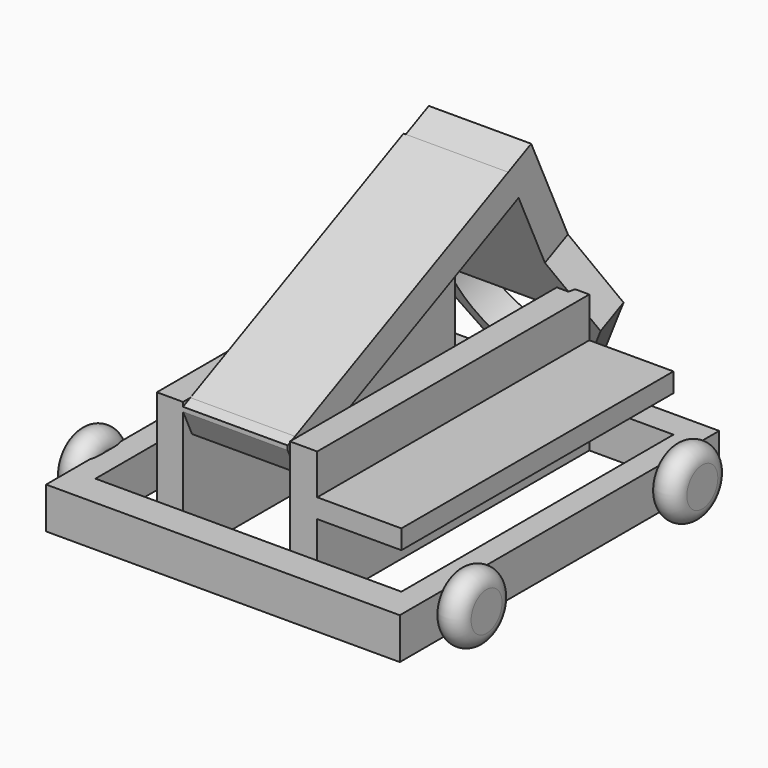
from build123d import *

# Parameters (mm, degrees)
F0_W      = 93.5455225408
F0_H      = 105.5771075189
F0_W_2    = 6.9181583822
F0_H_2    = 89.936055243
F0_W_3    = 7.2189448401
F1_DEPTH  = 10.922
F7_W      = 6.9181583822
F7_H      = 89.936055243
F7_W_2    = 7.2189448401
F8_DEPTH  = 25.4
F9_START  = 9.652
F7_W_3    = 22.2584232688
F9_DEPTH  = 5.08
F11_DEPTH = 27.686
F12_W     = 27.0820019201
F12_H     = 8.1213116646
F13_DEPTH = 8.382


with BuildPart() as f1:
    # F0 (on Top) → F1 (new body)
    with BuildSketch(Plane.XY):
        with Locations((0.3007892519, 2.406315878)):
            Rectangle(F0_W, F0_H)
        Polygon((-40.1553958654, -41.9601351023), (-40.1553958654, 47.9759201407), (-23.9127632231, 47.9759201407), (-16.9946048409, 47.9759201407), (11.2796062604, 47.9759201407), (18.4985511005, 47.9759201407), (40.7569743693, 47.9759201407), (40.7569743693, -41.9601351023), (18.4985511005, -41.9601351023), (11.2796062604, -41.9601351023), (-16.9946048409, -41.9601351023), (-23.9127632231, -41.9601351023), align=None, mode=Mode.SUBTRACT)
        with Locations((-20.453684032, 3.0078925192)):
            Rectangle(F0_W_2, F0_H_2)
        with Locations((14.8890786804, 3.0078925192)):
            Rectangle(F0_W_3, F0_H_2)
    extrude(amount=F1_DEPTH)

    # F7 (on face) → F8 (join)
    with BuildSketch(Plane.XY.offset(10.922)):
        with Locations((-20.453684032, 3.0078925192)):
            Rectangle(F7_W, F7_H)
        with Locations((14.8890786804, 3.0078925192)):
            Rectangle(F7_W_2, F7_H)
    extrude(amount=F8_DEPTH)

    # F7 (on face) → F9 (join)
    with BuildSketch(Plane.XY.offset(10.922).offset(F9_START)):
        with Locations((29.6277627349, 3.0078925192)):
            Rectangle(F7_W_3, F7_H)
    extrude(amount=F9_DEPTH)

    # F10 (on face) → F11 (join)
    with BuildSketch(Plane.YZ.offset(-16.9946048409)):
        Polygon((30.9317931833, 69.1758720489), (-39.5235627911, 36.322), (-20.3069022731, 36.322), (34.3640078021, 61.8154640463), align=None)
        Polygon((-39.5235627911, 36.322), (-41.9601351023, 35.1858076717), (-41.9601351023, 34.0381337532), (-38.9675050974, 27.6204179972), (-20.3069022731, 36.322), align=None)
    extrude(amount=F11_DEPTH)



with BuildPart() as f4:
    # F3 (on offset) → F4 (revolve)
    with BuildSketch(Plane.XZ.offset(30.734)):
        with BuildLine():
            Line((-53.831288591, 6.1661838554), (-46.0107605904, 6.1661838554))
            Line((-46.0107605904, 6.1661838554), (-46.0107605904, 11.279605329))
            ThreePointArc((-46.0107605904, 11.279605329), (-49.9210245907, 15.1898693293), (-53.831288591, 11.279605329))
            Line((-53.831288591, 11.279605329), (-53.831288591, 6.1661838554))
        make_face()
    revolve(axis=Axis((5.344026722, -30.734, 6.1661838554), (1, 0, 0)))


with BuildPart() as f4b:
    # F3 (on offset) → F4, piece 2 (revolve)
    with BuildSketch(Plane.XZ.offset(30.734)):
        with BuildLine():
            Line((46.4820079505, 11.279605329), (46.4820079505, 6.1661838554))
            Line((46.4820079505, 6.1661838554), (54.3025359511, 6.1661838554))
            Line((54.3025359511, 6.1661838554), (54.3025359511, 11.279605329))
            ThreePointArc((54.3025359511, 11.279605329), (50.3922719508, 15.1898693293), (46.4820079505, 11.279605329))
        make_face()
    revolve(axis=Axis((5.344026722, -30.734, 6.1661838554), (1, 0, 0)))


with BuildPart() as f6_1:
    # F6: copy of F4
    add(f4.part.moved(Location((0, 71.3270492852, 0))))


with BuildPart() as f6_2:
    # F6: copy of F4b
    add(f4b.part.moved(Location((0, 71.3270492852, 0))))


with BuildPart() as f1_1:
    add(f1.part)

    add(f4.part)  # F13 merges F4

    add(f4b.part)  # F13 merges F4b

    add(f6_1.part)  # F13 merges F6_1

    add(f6_2.part)  # F13 merges F6_2
    # F12 (on face) → F13 (join)
    with BuildSketch(Plane(origin=(0, 51.903079484, 24.2028034452), x_dir=(-1, 0, 0), z_dir=(0, 0.906307787, 0.4226182617))):
        with BuildLine():
            Line((16.390606761, 41.5009791807), (-10.6913951591, 41.5009791807))
            Line((-10.6913951591, 41.5009791807), (-10.6913951591, 20.8885483444))
            Line((-10.6913951591, 20.8885483444), (-19.4003861398, 3.1360122375))
            Line((-19.4003861398, 3.1360122375), (-7.0645119995, -17.9172083735))
            Line((-7.0645119995, -17.9172083735), (-2.8801033407, -15.4654058907))
            ThreePointArc((-2.8801033407, -15.4654058907), (-10.3370432046, -7.3408520394), (-13.7793741506, 3.1360122375))
            Line((-13.7793741506, 3.1360122375), (-12.436923467, 5.872483579))
            Line((-12.436923467, 5.872483579), (18.7401331488, 5.872483579))
            Line((18.7401331488, 5.872483579), (20.0825838323, 3.1360122375))
            ThreePointArc((20.0825838323, 3.1360122375), (16.6402528864, -7.3408520394), (9.1833130225, -15.4654058907))
            Line((9.1833130225, -15.4654058907), (13.3677216812, -17.9172083735))
            Line((13.3677216812, -17.9172083735), (25.7035958215, 3.1360122375))
            Line((25.7035958215, 3.1360122375), (16.390606761, 20.8885483444))
            Line((16.390606761, 20.8885483444), (16.390606761, 41.5009791807))
        make_face()
        with Locations((2.8496058009, 45.561635013)):
            Rectangle(F12_W, F12_H)
    extrude(amount=F13_DEPTH)


solid = f1_1.part
